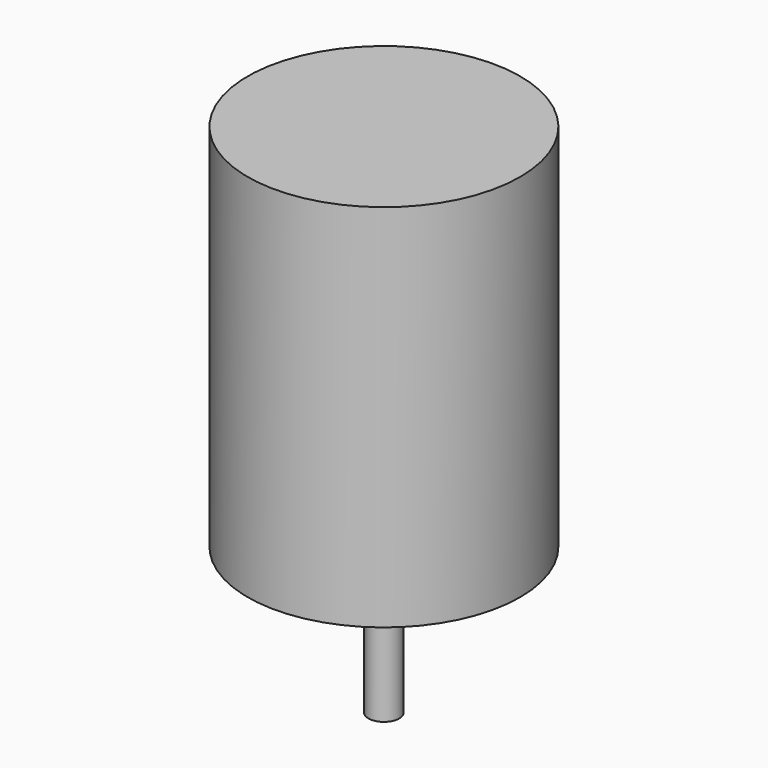
from build123d import *

# Parameters (mm, degrees)
F2_R     = 1.5875
F3_DEPTH = 6.35


with BuildPart() as f1:
    # F0 (on Front) → F1 (revolve)
    with BuildSketch(Plane.XZ):
        Polygon((0, 52.9984), (0, 0), (1.5875, 0), (1.5875, 15), (13.9954, 15), (13.9954, 52.9984), align=None)
    revolve(axis=Axis((0, 0, 34.635175), (0, 0, 1)))

    # F2 (on face) → F3 (cut)
    with BuildSketch(Plane(origin=(0, 0, 15), x_dir=(1, 0, 0), z_dir=(0, 0, -1))):
        with Locations((8.89, 0)):
            Circle(F2_R)
        with Locations((0, 8.89)):
            Circle(F2_R)
        with Locations((0, -8.89)):
            Circle(F2_R)
        with Locations((-8.89, 0)):
            Circle(F2_R)
    extrude(amount=-F3_DEPTH, mode=Mode.SUBTRACT)


solid = f1.part
